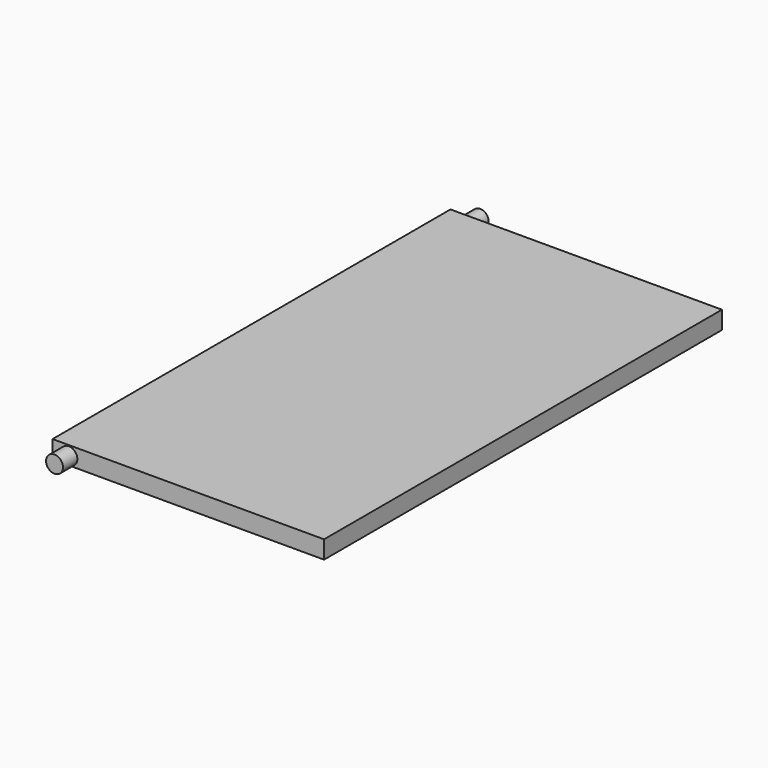
from build123d import *

# Parameters (mm, degrees)
BOX_W             = 50
BOX_H             = 91.6
BOX_DEPTH         = 3.3
CYLINDER_R        = 1.56
CYLINDER_DEPTH    = 3.3
CYLINDER001_R     = 1.56
CYLINDER001_DEPTH = 3.3


with BuildPart() as part:
    # Box → Box (join)
    with BuildSketch(Plane.XY):
        with Locations((25, 45.8)):
            Rectangle(BOX_W, BOX_H)
    extrude(amount=BOX_DEPTH)

    # Cylinder → Cylinder (join)
    with BuildSketch(Plane(origin=(3, 0, 1.55), x_dir=(1, 0, 0), z_dir=(0, -1, 0))):
        Circle(CYLINDER_R)
    extrude(amount=CYLINDER_DEPTH)

    # Cylinder001 → Cylinder001 (join)
    with BuildSketch(Plane(origin=(3, 94.7, 1.55), x_dir=(1, 0, 0), z_dir=(0, -1, 0))):
        Circle(CYLINDER001_R)
    extrude(amount=CYLINDER001_DEPTH)


solid = part.part
